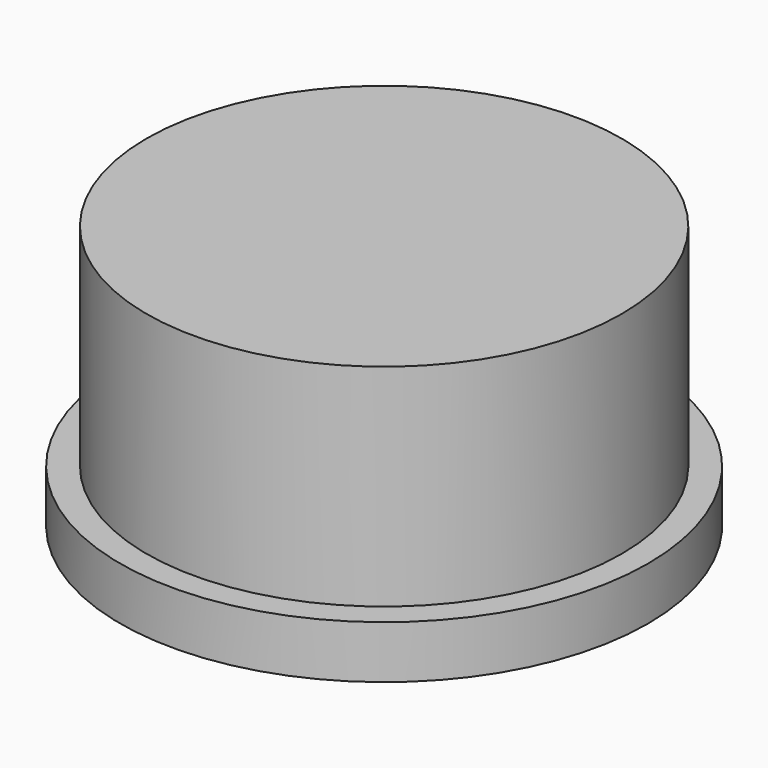
from build123d import *

# Parameters (mm, degrees)
F0_R     = 22.5
F1_DEPTH = 25
F2_R     = 25
F2_R_2   = 22.5
F3_DEPTH = 5


with BuildPart() as f1:
    # F0 (on Top) → F1 (new body)
    with BuildSketch(Plane.XY):
        Circle(F0_R)
    extrude(amount=F1_DEPTH)


with BuildPart() as f3:
    # F2 (on face) → F3 (new body)
    with BuildSketch(Plane(origin=(0, 0, 0), x_dir=(1, 0, 0), z_dir=(0, 0, -1))):
        Circle(F2_R)
        Circle(F2_R_2, mode=Mode.SUBTRACT)
    extrude(amount=-F3_DEPTH)


solid = Compound([f1.part, f3.part])
